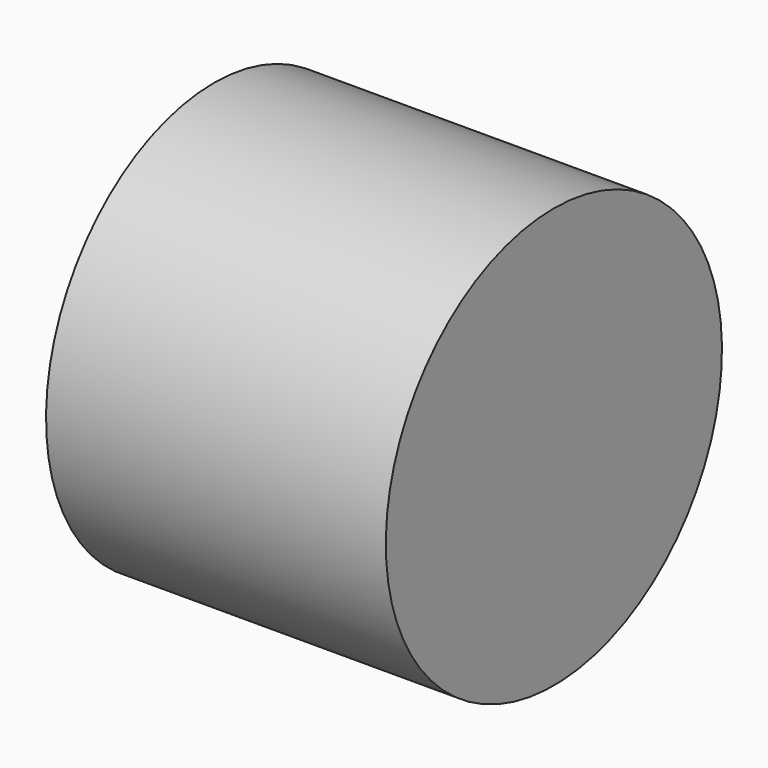
from build123d import *

# Parameters (mm, degrees)
F0_W = 2.8
F0_H = 7.25


with BuildPart() as f1:
    # F0 (on Front) → F1 (revolve)
    with BuildSketch(Plane.XZ):
        Polygon((0, 11.5), (-18.6, 11.5), (-18.6, 7.25), (-18.6, 0), (0, 0), align=None)
        with Locations((-20, 3.625)):
            Rectangle(F0_W, F0_H)
    revolve(axis=Axis((-10.7, 0, 0), (-1, 0, 0)))


solid = f1.part
